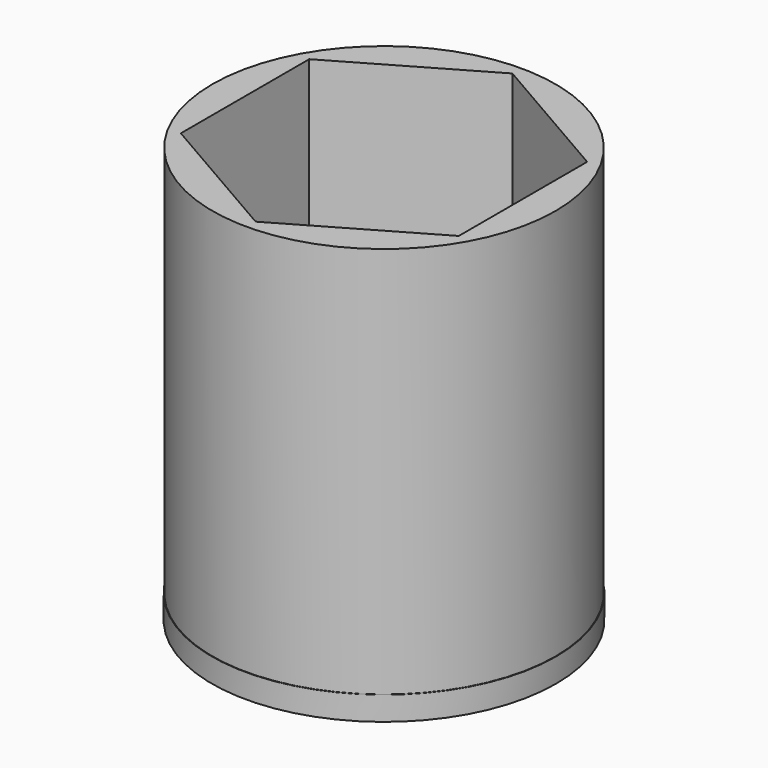
from build123d import *

# Parameters (mm, degrees)
F0_R     = 7.87972
F1_DEPTH = 18
F2_R     = 7.901402
F3_DEPTH = 1.1


with BuildPart() as f1:
    # F0 (on Top) → F1 (new body)
    with BuildSketch(Plane.XY):
        Circle(F0_R)
        Polygon((0, 7.366667), (6.37972, 3.683333), (6.37972, -3.683333), (0, -7.366667), (-6.37972, -3.683333), (-6.37972, 3.683333), align=None, mode=Mode.SUBTRACT)
    extrude(amount=F1_DEPTH)

    # F2 (on Top) → F3 (join)
    with BuildSketch(Plane.XY):
        Circle(F2_R)
    extrude(amount=-F3_DEPTH)


solid = f1.part
